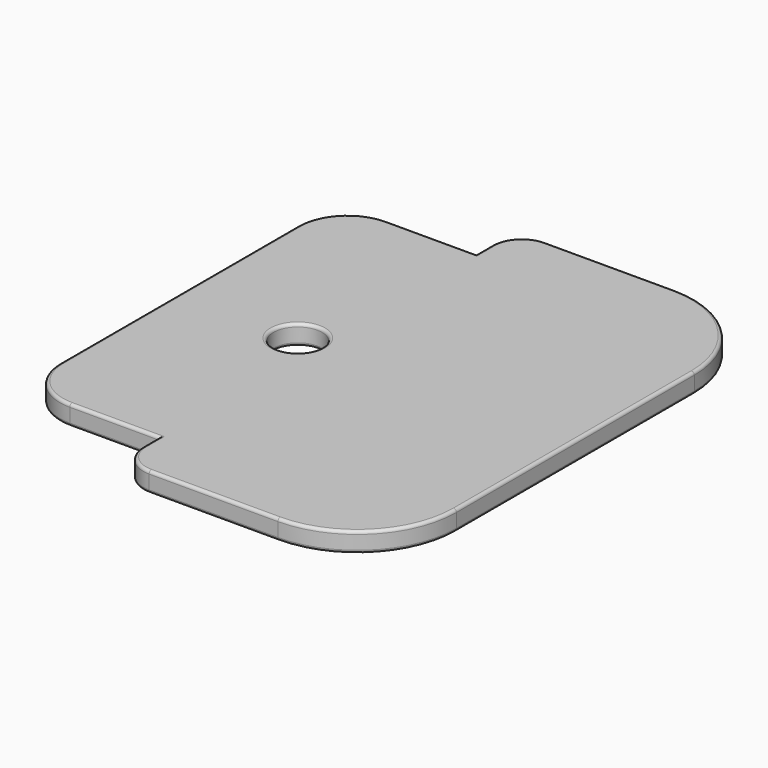
from build123d import *

# Parameters (mm, degrees)
F0_R     = 24.5
F1_DEPTH = 20
F2_R     = 3


with BuildPart() as f1:
    # F0 (on Top) → F1 (new body)
    with BuildSketch(Plane.XY):
        with BuildLine():
            Line((-30, -250), (100, -250))
            ThreePointArc((100, -250), (170.710678, -220.710678), (200, -150))
            Line((200, -150), (200, 150))
            ThreePointArc((200, 150), (170.710678, 220.710678), (100, 250))
            Line((100, 250), (-30, 250))
            ThreePointArc((-30, 250), (-51.213203, 241.213203), (-60, 220))
            Line((-60, 220), (-60, 200))
            Line((-60, 200), (-150, 200))
            ThreePointArc((-150, 200), (-185.355339, 185.355339), (-200, 150))
            Line((-200, 150), (-200, -150))
            ThreePointArc((-200, -150), (-185.355339, -185.355339), (-150, -200))
            Line((-150, -200), (-60, -200))
            Line((-60, -200), (-60, -220))
            ThreePointArc((-60, -220), (-51.213203, -241.213203), (-30, -250))
        make_face()
        with Locations((-80, 0)):
            Circle(F0_R, mode=Mode.SUBTRACT)
    extrude(amount=F1_DEPTH)

    # F2
    f2_edges = [f1.edges().sort_by_distance(p)[0] for p in [
        (-185.355339, -185.355339, 20),
        (-105, -200, 20),
        (-60, -210, 20),
        (-51.213203, -241.213203, 20),
        (35, -250, 20),
        (170.710678, -220.710678, 20),
        (200, 0, 20),
        (170.710678, 220.710678, 20),
        (35, 250, 20),
        (-51.213203, 241.213203, 20),
        (-60, 210, 20),
        (-105, 200, 20),
        (-185.355339, 185.355339, 20),
        (-200, 0, 20),
        (-104.5, 0, 20),
        (-185.355339, -185.355339, 0),
        (-105, -200, 0),
        (-60, -210, 0),
        (-51.213203, -241.213203, 0),
        (35, -250, 0),
        (170.710678, -220.710678, 0),
        (200, 0, 0),
        (170.710678, 220.710678, 0),
        (35, 250, 0),
        (-51.213203, 241.213203, 0),
        (-60, 210, 0),
        (-105, 200, 0),
        (-185.355339, 185.355339, 0),
        (-200, 0, 0),
        (-104.5, 0, 0),
    ]]
    fillet(f2_edges, radius=F2_R)


solid = f1.part
